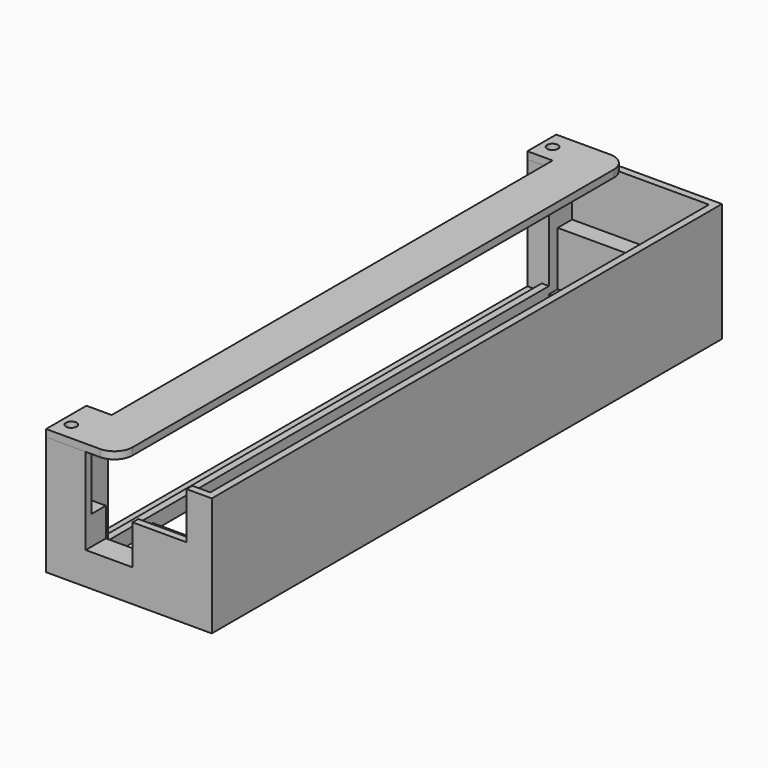
from build123d import *

# Parameters (mm, degrees)
F0_W      = 42
F0_H      = 177
F0_W_2    = 38
F0_H_2    = 173
F1_DEPTH  = 33
F2_W      = 153
F2_H      = 29
F3_DEPTH  = 5.8
F4_W      = 38
F4_H      = 5
F5_DEPTH  = 17
F6_W      = 4
F6_H      = 177
F6_W_2    = 38
F6_H_2    = 3
F7_DEPTH  = 2
F8_W      = 4
F8_H      = 14
F8_H_2    = 10
F9_DEPTH  = 31
F10_R     = 1.4
F11_DEPTH = 5
F12_W     = 13
F12_H     = 11
F13_DEPTH = 7
F15_R     = 1.5
F15_W     = 13
F15_H     = 15
F15_H_2   = 123
F16_DEPTH = 2


with BuildPart() as f1:
    # F0 (on Top) → F1 (new body)
    with BuildSketch(Plane.XY):
        Rectangle(F0_W, F0_H)
        Rectangle(F0_W_2, F0_H_2, mode=Mode.SUBTRACT)
    extrude(amount=F1_DEPTH)

    # F2 (on face) → F3 (cut)
    with BuildSketch(Plane(origin=(-21, 0, 0), x_dir=(0, -1, 0), z_dir=(-1, 0, 0))):
        with Locations((-2, 18.5)):
            Rectangle(F2_W, F2_H)
    extrude(amount=-F3_DEPTH, mode=Mode.SUBTRACT)

    # F4 (on Top) → F5 (join)
    with BuildSketch(Plane.XY):
        with Locations((0, 84)):
            Rectangle(F4_W, F4_H)
        with Locations((0, -84)):
            Rectangle(F4_W, F4_H)
    extrude(amount=F5_DEPTH)

    # F6 (on Top) → F7 (join)
    with BuildSketch(Plane.XY):
        with Locations((-23, 0)):
            Rectangle(F6_W, F6_H)
        with Locations((0, 80)):
            Rectangle(F6_W_2, F6_H_2)
        with Locations((0, -80)):
            Rectangle(F6_W_2, F6_H_2)
    extrude(amount=F7_DEPTH)

    # F8 (on face) → F9 (join)
    with BuildSketch(Plane.XY.offset(2)):
        with Locations((-23, -81.5)):
            Rectangle(F8_W, F8_H)
        with Locations((-23, 83.5)):
            Rectangle(F8_W, F8_H_2)
    extrude(amount=F9_DEPTH)

    # F10 (on face) → F11 (cut)
    with BuildSketch(Plane.XY.offset(33)):
        with Locations((-22, -83.5)):
            Circle(F10_R)
        with Locations((-22, 83.5)):
            Circle(F10_R)
    extrude(amount=-F11_DEPTH, mode=Mode.SUBTRACT)

    # F12 (on face) → F13 (cut)
    with BuildSketch(Plane.XZ.offset(88.5)):
        Polygon((14, 20), (14, 33), (-14, 33), (-14, 20), (-1, 20), align=None)
        with Locations((-7.5, 14.5)):
            Rectangle(F12_W, F12_H)
    extrude(amount=-F13_DEPTH, mode=Mode.SUBTRACT)


with BuildPart() as f16:
    # F15 (on offset) → F16 (new body)
    with BuildSketch(Plane.XY.offset(33)):
        with BuildLine():
            Line((-10, 88.5), (-25, 88.5))
            Line((-25, 88.5), (-25, 78.5))
            Line((-25, 78.5), (-18, 78.5))
            Line((-18, 78.5), (-5, 78.5))
            Line((-5, 78.5), (-5, 83.5))
            ThreePointArc((-5, 83.5), (-6.464466, 87.035534), (-10, 88.5))
        make_face()
        with Locations((-22, 83.5)):
            Circle(F15_R, mode=Mode.SUBTRACT)
        with Locations((-11.5, 71)):
            Rectangle(F15_W, F15_H)
        with Locations((-11.5, 2)):
            Rectangle(F15_W, F15_H_2)
        with Locations((-11.5, -67)):
            Rectangle(F15_W, F15_H)
        with BuildLine():
            Line((-5, -74.5), (-18, -74.5))
            Line((-18, -74.5), (-25, -74.5))
            Line((-25, -74.5), (-25, -88.5))
            Line((-25, -88.5), (-10, -88.5))
            ThreePointArc((-10, -88.5), (-6.464466, -87.035534), (-5, -83.5))
            Line((-5, -83.5), (-5, -74.5))
        make_face()
        with Locations((-22, -83.5)):
            Circle(F15_R, mode=Mode.SUBTRACT)
    extrude(amount=F16_DEPTH)


solid = Compound([f1.part, f16.part])
